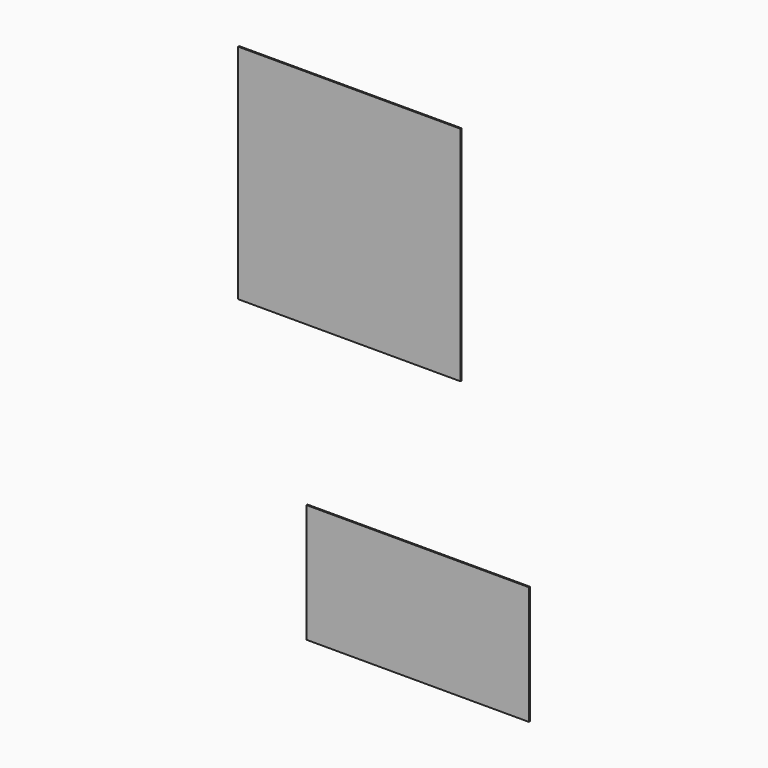
from build123d import *

# Parameters (mm, degrees)
F0_W     = 4572
F0_H     = 4572
F1_DEPTH = 25.4
F2_DEPTH = 25.4


with BuildPart() as f1:
    # F0 (on Front) → F1 (new body)
    with BuildSketch(Plane.XZ):
        Polygon((4412.361914, 2374.412715), (-159.638086, 2374.412715), (-159.638086, 2171.212715), (-159.638086, -63.987285), (4412.361914, -63.987285), align=None)
        with Locations((720.967875, 7930.449711)):
            Rectangle(F0_W, F0_H)
    extrude(amount=F1_DEPTH)

    # F0 (on Front) → F2 (join)
    with BuildSketch(Plane.XZ):
        with Locations((720.967875, 7930.449711)):
            Rectangle(F0_W, F0_H)
    extrude(amount=F2_DEPTH)


solid = f1.part
